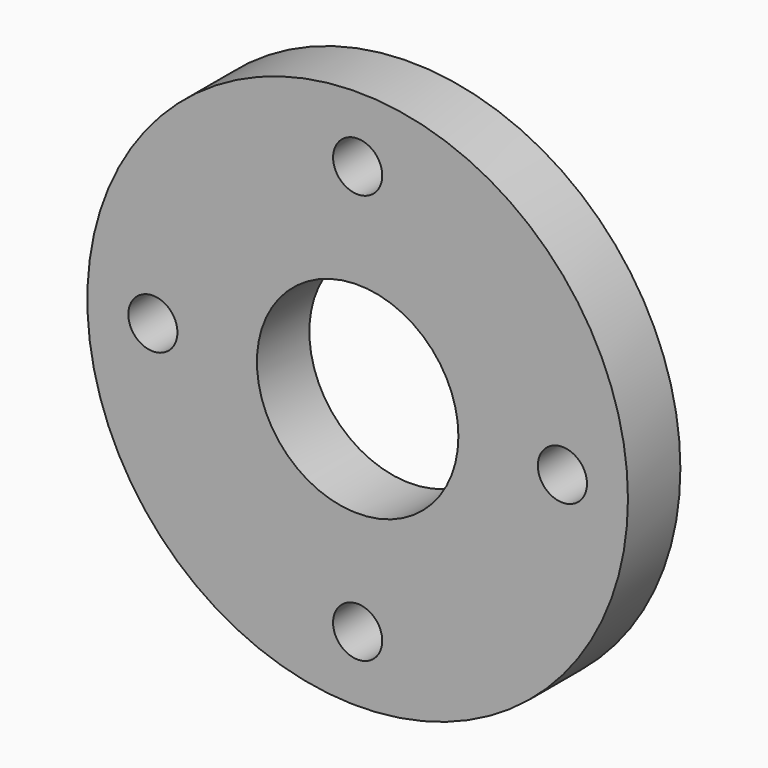
from build123d import *

# Parameters (mm, degrees)
F0_R     = 82.5
F0_R_2   = 30.75
F1_DEPTH = 20
F2_R     = 7.5
F3_DEPTH = 20.001


with BuildPart() as f1:
    # F0 (on Front) → F1 (new body)
    with BuildSketch(Plane.XZ):
        Circle(F0_R)
        Circle(F0_R_2, mode=Mode.SUBTRACT)
    extrude(amount=F1_DEPTH)

    # F2 (on face) → F3 (cut, through all)
    with BuildSketch(Plane(origin=(0, 0, 0), x_dir=(-1, 0, 0), z_dir=(0, 1, 0))):
        with Locations((0, -62.5)):
            Circle(F2_R)
        with Locations((62.5, 0)):
            Circle(F2_R)
        with Locations((0, 62.5)):
            Circle(F2_R)
        with Locations((-62.5, 0)):
            Circle(F2_R)
    extrude(amount=-F3_DEPTH, mode=Mode.SUBTRACT)


solid = f1.part
